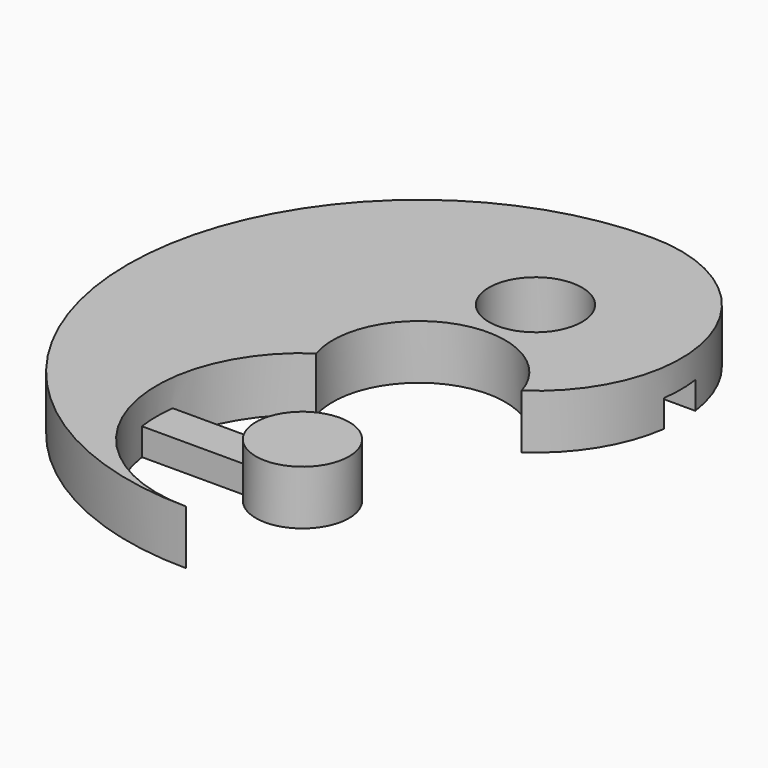
from build123d import *

# Parameters (mm, degrees)
F0_R     = 6
F1_DEPTH = 7
F2_W     = 18.74953
F2_H     = 5
F3_DEPTH = 3.5
F4_W     = 22.433769
F4_H     = 5
F5_DEPTH = 3.5


with BuildPart() as f1:
    # F0 (on Top) → F1 (new body)
    with BuildSketch(Plane.XY):
        with BuildLine():
            ThreePointArc((10.602586, 3.2856), (17.909774, 24.3), (0, 37.5))
            ThreePointArc((0, 37.5), (-37.5, 0), (0, -37.5))
            ThreePointArc((0, -37.5), (-17.909774, -24.3), (-10.602586, -3.2856))
            ThreePointArc((-10.602586, -3.2856), (-3.2856, 10.602586), (10.602586, 3.2856))
        make_face()
        with Locations((0, 18.75)):
            Circle(F0_R, mode=Mode.SUBTRACT)
        with Locations((0, -18.75)):
            Circle(F0_R)
    extrude(amount=F1_DEPTH)

    # F2 (on Top) → F3 (join)
    with BuildSketch(Plane.XY):
        with Locations((-9.374765, -18.882733)):
            Rectangle(F2_W, F2_H)
    extrude(amount=F3_DEPTH)

    # F4 (on Top) → F5 (cut)
    with BuildSketch(Plane.XY):
        with Locations((11.216884, 18.75)):
            Rectangle(F4_W, F4_H)
    extrude(amount=F5_DEPTH, mode=Mode.SUBTRACT)


solid = f1.part
